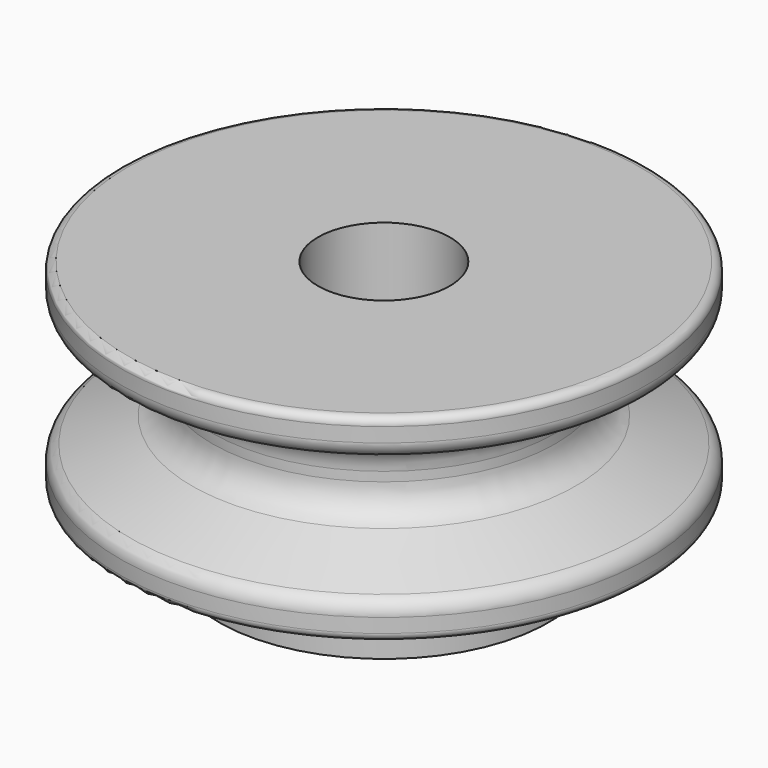
from build123d import *


with BuildPart() as f1:
    # F0 (on Front) → F1 (revolve)
    with BuildSketch(Plane.XZ):
        with BuildLine():
            Line((-6.35, -4.550833), (-6.35, 20.849167))
            Line((-6.35, 20.849167), (-24.638, 20.849167))
            ThreePointArc((-24.638, 20.849167), (-25.176815, 20.625982), (-25.4, 20.087167))
            Line((-25.4, 20.087167), (-25.4, 18.699073))
            ThreePointArc((-25.4, 18.699073), (-25.145088, 17.840068), (-24.462878, 17.259156))
            Line((-24.462878, 17.259156), (-18.399359, 14.573883))
            ThreePointArc((-18.399359, 14.573883), (-17.023935, 13.402689), (-16.51, 11.670824))
            Line((-16.51, 11.670824), (-16.51, 10.778493))
            ThreePointArc((-16.51, 10.778493), (-17.04503, 9.014638), (-18.469799, 7.84525))
            Line((-18.469799, 7.84525), (-24.427939, 5.376878))
            ThreePointArc((-24.427939, 5.376878), (-25.134625, 4.796861), (-25.4, 3.921989))
            Line((-25.4, 3.921989), (-25.4, 2.561167))
            ThreePointArc((-25.4, 2.561167), (-25.176815, 2.022352), (-24.638, 1.799167))
            Line((-24.638, 1.799167), (-15.875, 1.799167))
            Line((-15.875, 1.799167), (-15.875, -4.550833))
            Line((-15.875, -4.550833), (-6.35, -4.550833))
        make_face()
    revolve(axis=Axis((0, 0, 0.052916), (0, 0, 1)))


solid = f1.part
